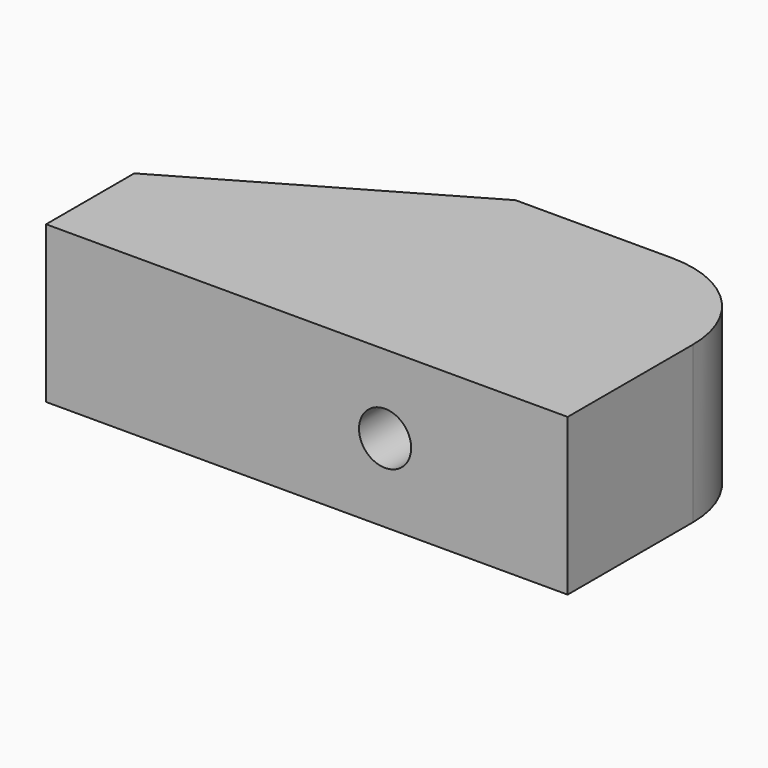
from build123d import *

# Parameters (mm, degrees)
PAD_DEPTH    = 30
SKETCH001_R  = 5
POCKET_DEPTH = 50


with BuildPart() as part:
    # Sketch → Pad (new body)
    with BuildSketch(Plane.XY):
        with BuildLine():
            Line((0, 0), (100, 0))
            Line((100, 0), (100, 30))
            ThreePointArc((100, 30), (94.142136, 44.142136), (80, 50))
            Line((50, 50), (80, 50))
            Line((0, 21.132487), (50, 50))
            Line((0, 21.132487), (0, 0))
        make_face()
    extrude(amount=PAD_DEPTH)

    # Sketch001 (on Face4 of Pad) → Pocket (cut)
    with BuildSketch(Plane(origin=(0, 50, 0), x_dir=(-1, 0, 0), z_dir=(0, 1, 0))):
        with Locations((-65, 15)):
            Circle(SKETCH001_R)
    extrude(amount=-POCKET_DEPTH, mode=Mode.SUBTRACT)


solid = part.part
